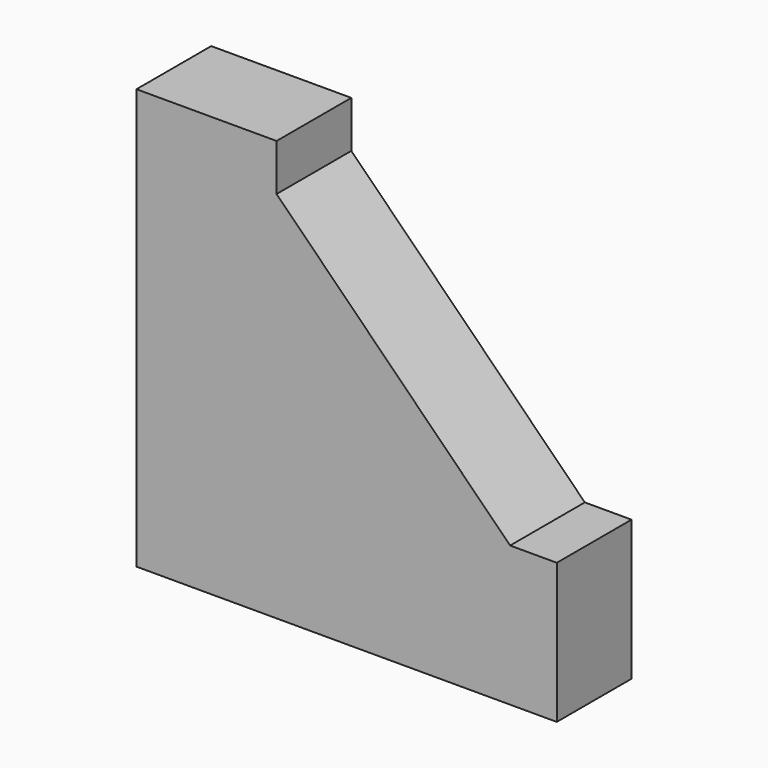
from build123d import *

# Parameters (mm, degrees)
F1_DEPTH = 20
F2_R     = 3
F3_DEPTH = 25
F4_R     = 3
F5_DEPTH = 25


with BuildPart() as f1:
    # F0 (on Front) → F1 (new body)
    with BuildSketch(Plane.XZ):
        Polygon((0, 90), (0, 0), (90, 0), (90, 30), (80, 30), (30, 80), (30, 90), align=None)
    extrude(amount=F1_DEPTH)

    # F2 (on face) → F3 (cut)
    with BuildSketch(Plane(origin=(0, 0, 0), x_dir=(0, -1, 0), z_dir=(-1, 0, 0))):
        with Locations((10, 20)):
            Circle(F2_R)
        with Locations((10, 45)):
            Circle(F2_R)
        with Locations((10, 80)):
            Circle(F2_R)
    extrude(amount=-F3_DEPTH, mode=Mode.SUBTRACT)

    # F4 (on face) → F5 (cut)
    with BuildSketch(Plane(origin=(0, 0, 0), x_dir=(1, 0, 0), z_dir=(0, 0, -1))):
        with Locations((20, 10)):
            Circle(F4_R)
        with Locations((45, 10)):
            Circle(F4_R)
        with Locations((80, 10)):
            Circle(F4_R)
    extrude(amount=-F5_DEPTH, mode=Mode.SUBTRACT)


solid = f1.part
